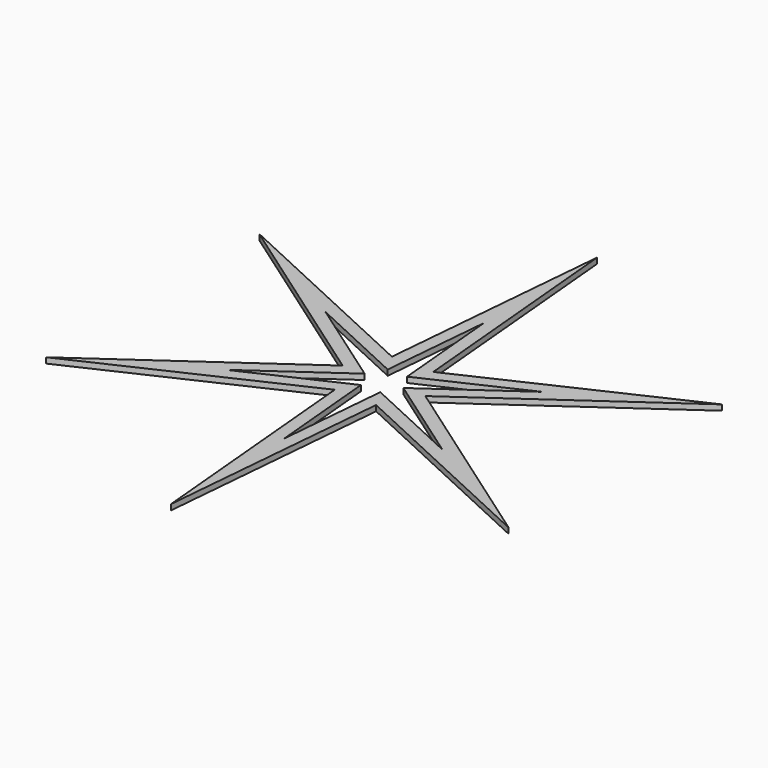
from build123d import *

# Parameters (mm, degrees)
F1_DEPTH = 3


with BuildPart() as f1:
    # F0 (on Top) → F1 (new body)
    with BuildSketch(Plane.XY):
        Polygon((0.17165, -143.402397), (11.122826, -19.212155), (124.275944, -71.552546), (22.199627, 0.026572), (124.104294, 71.849852), (11.076801, 19.238727), (-0.17165, 143.402397), (-11.122826, 19.212155), (-124.275944, 71.552546), (-22.199627, -0.026572), (-124.104294, -71.849852), (-11.076801, -19.238727), align=None)
        Polygon((-10.397267, -0.012445), (-58.205037, 33.511865), (-5.209411, 8.998074), (-0.080393, 67.162973), (5.187855, 9.01052), (58.124645, 33.651109), (10.397267, 0.012445), (58.205037, -33.511865), (5.209411, -8.998074), (0.080393, -67.162973), (-5.187855, -9.01052), (-58.124645, -33.651109), align=None, mode=Mode.SUBTRACT)
    extrude(amount=F1_DEPTH)


solid = f1.part
